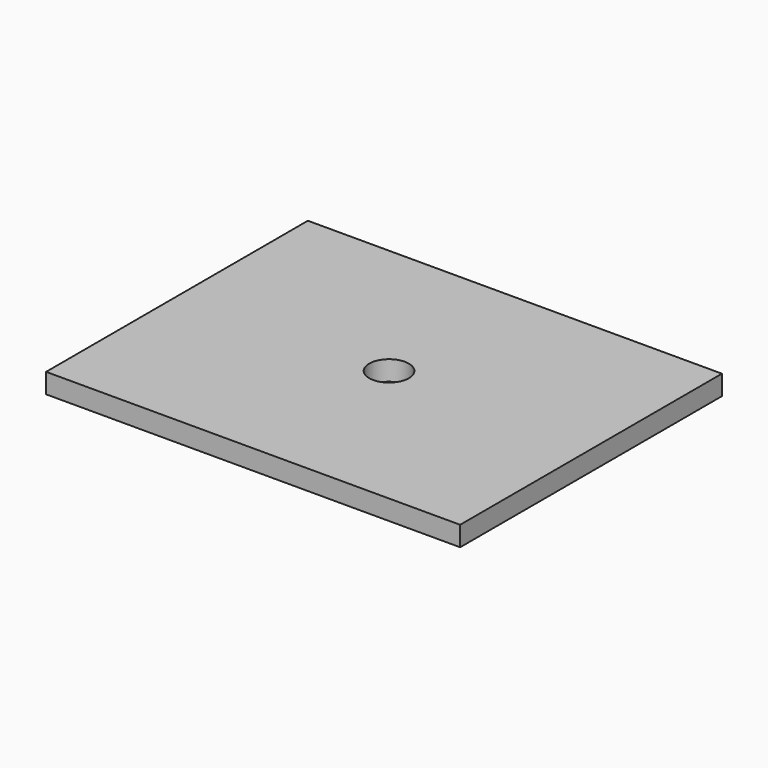
from build123d import *

# Parameters (mm, degrees)
CYLINDER_R     = 2
CYLINDER_DEPTH = 10
SKETCH_W       = 41.771851
SKETCH_H       = 33.013145
EXTRUDE_DEPTH  = 2


with BuildPart() as cilindro:
    # Cylinder → Cylinder (new body)
    with BuildSketch(Plane(origin=(21, 17, -4), x_dir=(1, 0, 0), z_dir=(0, 0, 1))):
        Circle(CYLINDER_R)
    extrude(amount=CYLINDER_DEPTH)


with BuildPart() as cut:
    # Sketch → Extrude (new body)
    with BuildSketch(Plane.XY):
        with Locations((20.885925, 16.506573)):
            Rectangle(SKETCH_W, SKETCH_H)
    extrude(amount=EXTRUDE_DEPTH)

    # Cut: cut Cilindro
    add(cilindro.part, mode=Mode.SUBTRACT)


solid = cut.part
